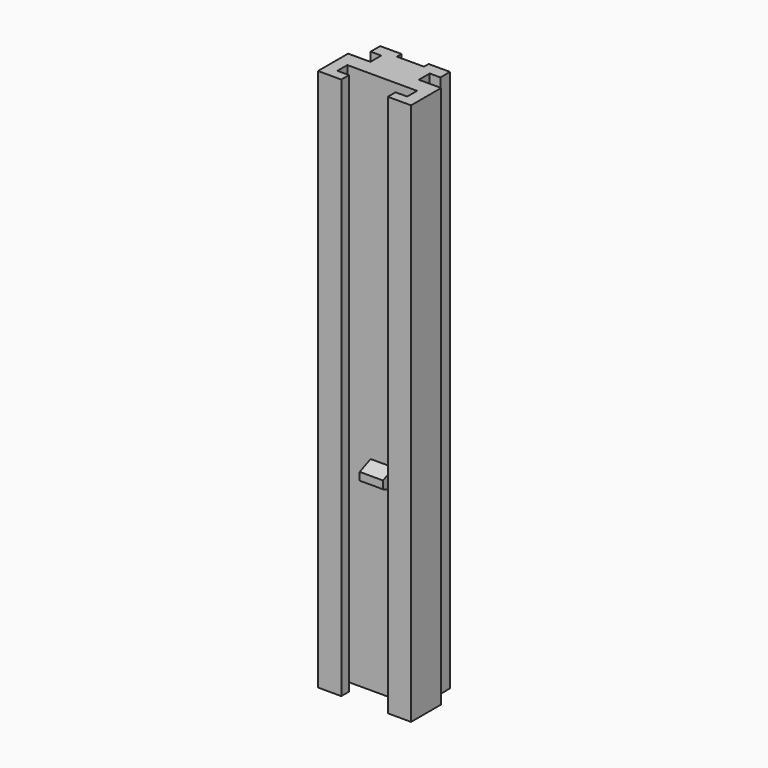
from build123d import *

# Parameters (mm, degrees)
F1_DEPTH      = 140
F3_DEPTH      = 3
F3_DEPTH_BACK = 3
F5_DEPTH      = 3
F5_DEPTH_BACK = 3


with BuildPart() as f1:
    # F0 (on Top) → F1 (new body)
    with BuildSketch(Plane.XY):
        Polygon((-9, 0), (0, 0), (9, 0), (9, -3.2), (6, -3.2), (6, -5.7), (12, -5.7), (12, 4), (6.25, 4), (6.25, 7.5), (9, 7.5), (9, 10.6), (3.5, 10.6), (3.5, 9.1), (0, 9.1), (-3.5, 9.1), (-3.5, 10.6), (-9, 10.6), (-9, 7.5), (-6.25, 7.5), (-6.25, 4), (-12, 4), (-12, -5.7), (-6, -5.7), (-6, -3.2), (-9, -3.2), align=None)
    extrude(amount=F1_DEPTH)

    # F2 (on Right) → F3 (join, two sides)
    with BuildSketch(Plane.YZ) as f3_sk:
        Polygon((0, 52.5), (-3.5, 51), (-3.5, 49), (0, 47.5), align=None)
    extrude(amount=F3_DEPTH)
    extrude(f3_sk.sketch, amount=-F3_DEPTH_BACK)

    # F4 (on Right) → F5 (join, two sides)
    with BuildSketch(Plane.YZ) as f5_sk:
        Polygon((7.5, 128), (7.5, 114), (10.5, 119), (9, 120), (9, 122), (10.5, 123), align=None)
    extrude(amount=F5_DEPTH)
    extrude(f5_sk.sketch, amount=-F5_DEPTH_BACK)


solid = f1.part
